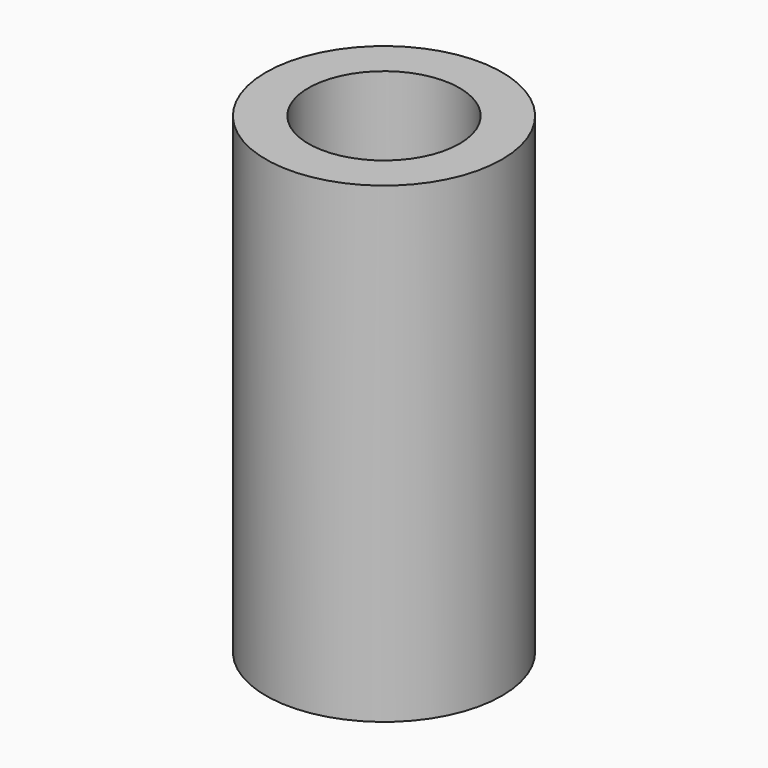
from build123d import *

# Parameters (mm, degrees)
SKETCH057_R  = 1.6
PAD023_DEPTH = 10
SKETCH056_R  = 2.5
PAD022_DEPTH = 10


with BuildPart() as pad023:
    # Sketch057 → Pad023 (new body)
    with BuildSketch(Plane.XY.offset(10)):
        Circle(SKETCH057_R)
    extrude(amount=-PAD023_DEPTH)


with BuildPart() as cut039:
    # Sketch056 → Pad022 (new body)
    with BuildSketch(Plane.XY):
        Circle(SKETCH056_R)
    extrude(amount=PAD022_DEPTH)

    # Cut039: cut Pad023
    add(pad023.part, mode=Mode.SUBTRACT)


with BuildPart() as cut039_1:
    # Cut039 placement: moved
    add(cut039.part.moved(Location((6.5, -75.5, -88))))


solid = cut039_1.part
